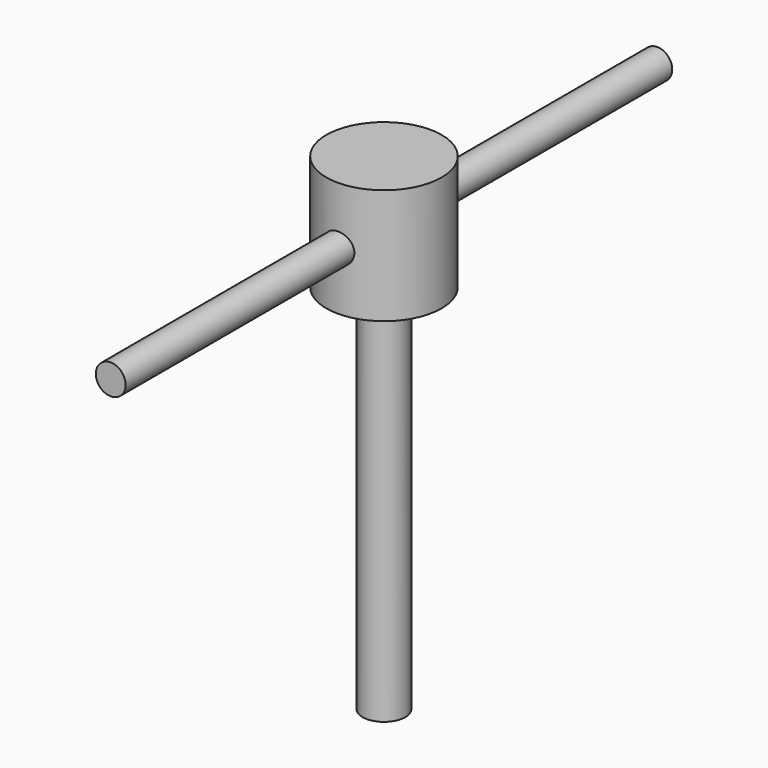
from build123d import *

# Parameters (mm, degrees)
F0_R          = 17.145
F1_DEPTH      = 17.145
F2_W          = 6.35
F2_H          = 110.54443
F4_R          = 4.445
F5_DEPTH      = 17.146
F5_DEPTH_BACK = 25.4
F6_R          = 4.445
F7_DEPTH      = 101.6


with BuildPart() as f1:
    # F0 (on Top) → F1 (new body, symmetric)
    with BuildSketch(Plane.XY):
        Circle(F0_R)
    extrude(amount=F1_DEPTH, both=True)

    # F2 (on Front) → F3 (revolve)
    with BuildSketch(Plane.XZ):
        with Locations((-3.175, -72.417215)):
            Rectangle(F2_W, F2_H)
    revolve(axis=Axis((0, 0, -76.082058), (0, 0, -1)))

    # F4 (on Front) → F5 (cut, two sides)
    with BuildSketch(Plane.XZ) as f5_sk:
        Circle(F4_R)
    extrude(amount=-F5_DEPTH, mode=Mode.SUBTRACT)
    extrude(f5_sk.sketch, amount=-F5_DEPTH_BACK, mode=Mode.SUBTRACT)

    # F6 (on Front) → F7 (join, symmetric)
    with BuildSketch(Plane.XZ):
        Circle(F6_R)
    extrude(amount=F7_DEPTH, both=True)


solid = f1.part
